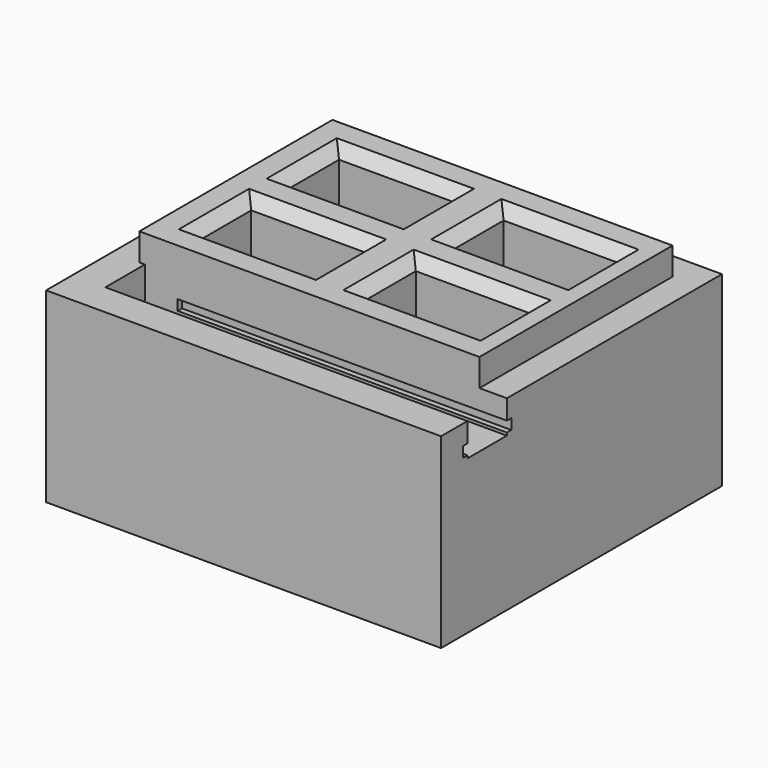
from build123d import *

# Parameters (mm, degrees)
BOX011_W        = 60
BOX011_H        = 11
BOX011_DEPTH    = 1.9
BOX010_W        = 72
BOX010_H        = 8
BOX010_DEPTH    = 34
BOX009_W        = 6
BOX009_H        = 49
BOX009_DEPTH    = 34
BOX008_W        = 6
BOX008_H        = 64
BOX008_DEPTH    = 34
BOX007_W        = 72
BOX007_H        = 6
BOX007_DEPTH    = 34
BOX003_W        = 25
BOX003_H        = 16
BOX003_DEPTH    = 4
CHAMFER001_SIZE = 3
BOX002_W        = 21
BOX002_H        = 12
BOX002_DEPTH    = 35
BOX004_W        = 62
BOX004_H        = 44
BOX004_DEPTH    = 39
BOX012_W        = 72
BOX012_H        = 15
BOX012_DEPTH    = 28


with BuildPart() as cube010:
    # Box011 → Box011 (new body)
    with BuildSketch(Plane(origin=(6, 179, -7.5), x_dir=(1, 0, 0), z_dir=(0, 0, 1))):
        with Locations((30, 5.5)):
            Rectangle(BOX011_W, BOX011_H)
    extrude(amount=BOX011_DEPTH)


with BuildPart() as cube009:
    # Box010 → Box010 (new body)
    with BuildSketch(Plane(origin=(-6, 230, -36), x_dir=(1, 0, 0), z_dir=(0, 0, 1))):
        with Locations((36, 4)):
            Rectangle(BOX010_W, BOX010_H)
    extrude(amount=BOX010_DEPTH)


with BuildPart() as cube008:
    # Box009 → Box009 (new body)
    with BuildSketch(Plane(origin=(60, 189, -36), x_dir=(1, 0, 0), z_dir=(0, 0, 1))):
        with Locations((3, 24.5)):
            Rectangle(BOX009_W, BOX009_H)
    extrude(amount=BOX009_DEPTH)


with BuildPart() as cube007:
    # Box008 → Box008 (new body)
    with BuildSketch(Plane(origin=(-6, 174, -36), x_dir=(1, 0, 0), z_dir=(0, 0, 1))):
        with Locations((3, 32)):
            Rectangle(BOX008_W, BOX008_H)
    extrude(amount=BOX008_DEPTH)


with BuildPart() as cube006:
    # Box007 → Box007 (new body)
    with BuildSketch(Plane(origin=(-6, 174, -36), x_dir=(1, 0, 0), z_dir=(0, 0, 1))):
        with Locations((36, 3)):
            Rectangle(BOX007_W, BOX007_H)
    extrude(amount=BOX007_DEPTH)


with BuildPart() as chamfer001:
    # Box003 → Box003 (new body)
    with BuildSketch(Plane(origin=(-2, -2, 32), x_dir=(1, 0, 0), z_dir=(0, 0, 1))):
        with Locations((12.5, 8)):
            Rectangle(BOX003_W, BOX003_H)
    extrude(amount=BOX003_DEPTH)

    # Chamfer001
    chamfer001_edges = [chamfer001.edges().sort_by_distance(p)[0] for p in [
        (-2, 6, 32),
        (23, 6, 32),
        (10.5, -2, 32),
        (10.5, 14, 32),
    ]]
    chamfer(chamfer001_edges, length=CHAMFER001_SIZE)


with BuildPart() as obj1:
    # Box002 → Box002 (new body)
    with BuildSketch(Plane.XY):
        with Locations((10.5, 6)):
            Rectangle(BOX002_W, BOX002_H)
    extrude(amount=BOX002_DEPTH)

    # Fusion001: union Chamfer001
    add(chamfer001.part)


with BuildPart() as obj1_1:
    # Fusion001 placement: moved
    add(obj1.part.moved(Location((30, 175, 0))))


with BuildPart() as obj2:
    # Clone001 base: copy of obj1
    add(obj1_1.part)


with BuildPart() as obj2_1:
    # Clone001 placement: moved
    add(obj2.part.moved(Location((-30, 0, 0))))


with BuildPart() as obj3:
    # Clone base: copy of obj1
    add(obj1_1.part)


with BuildPart() as obj3_1:
    # Clone placement: moved
    add(obj3.part.moved(Location((0, -20, 0))))


with BuildPart() as obj4:
    # Clone002 base: copy of obj1
    add(obj1_1.part)


with BuildPart() as obj4_1:
    # Clone002 placement: moved
    add(obj4.part.moved(Location((-30, -20, 0))))

    # Fusion002: union obj1, obj2, obj3
    add(obj1_1.part)
    add(obj2_1.part)
    add(obj3_1.part)


with BuildPart() as obj4_2:
    # Fusion002 placement: moved
    add(obj4_1.part.moved(Location((5, 0, 4))))


with BuildPart() as usbhalter:
    # Box004 → Box004 (new body)
    with BuildSketch(Plane(origin=(-1, 149, 0), x_dir=(1, 0, 0), z_dir=(0, 0, 1))):
        with Locations((31, 22)):
            Rectangle(BOX004_W, BOX004_H)
    extrude(amount=BOX004_DEPTH)

    # Cut: cut obj4
    add(obj4_2.part, mode=Mode.SUBTRACT)


with BuildPart() as usbhalter_1:
    # Cut placement: moved
    add(usbhalter.part.moved(Location((0, 40, -36))))


with BuildPart() as halterblock:
    # Box012 → Box012 (new body)
    with BuildSketch(Plane(origin=(-6, 174, -36), x_dir=(1, 0, 0), z_dir=(0, 0, 1))):
        with Locations((36, 7.5)):
            Rectangle(BOX012_W, BOX012_H)
    extrude(amount=BOX012_DEPTH)

    # Fusion003: union Cube009, Cube008, Cube007, Cube006, USBHalter
    add(cube009.part)
    add(cube008.part)
    add(cube007.part)
    add(cube006.part)
    add(usbhalter_1.part)

    # Cut003: cut Cube010
    add(cube010.part, mode=Mode.SUBTRACT)


solid = halterblock.part
